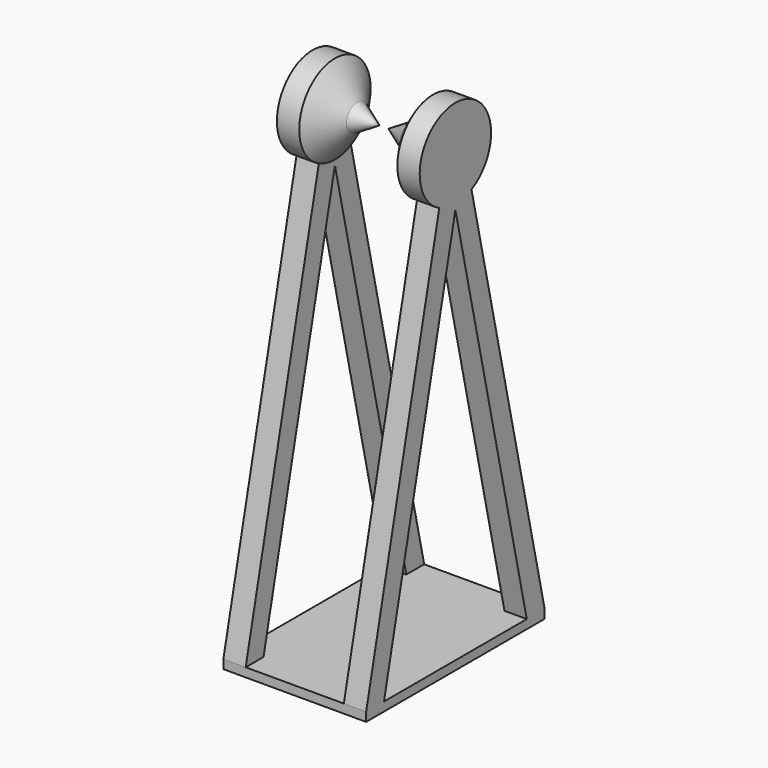
from build123d import *

# Parameters (mm, degrees)
SKETCH_W     = 32
SKETCH_H     = 50
PAD_DEPTH    = 2
SKETCH003_W  = 5
SKETCH003_H  = 5
SKETCH002_W  = 5
SKETCH002_H  = 5
SKETCH001_W  = 5
SKETCH001_H  = 5
SKETCH004_R  = 10
PAD001_DEPTH = 5


with BuildPart() as body:
    # Sketch → Pad (new body)
    with BuildSketch(Plane.XY):
        Rectangle(SKETCH_W, SKETCH_H)
    extrude(amount=PAD_DEPTH)


with BuildPart() as loft001:
    # Sketch003 (on Face6 of Pad) → Loft001 section 0
    with BuildSketch(Plane.XY.offset(2)):
        with Locations((-13.5, -22.5)):
            Rectangle(SKETCH003_W, SKETCH003_H)
    # Sketch002 (on Face6 of Pad) → Loft001 section 1
    with BuildSketch(Plane.XY.offset(102)):
        with Locations((-13.5, 0)):
            Rectangle(SKETCH002_W, SKETCH002_H)
    loft()


with BuildPart() as body001:
    # Sketch001 (on Face6 of Pad) → Loft section 0
    with BuildSketch(Plane.XY.offset(2)):
        with Locations((-13.5, 22.5)):
            Rectangle(SKETCH001_W, SKETCH001_H)
    # Sketch002 (on Face6 of Pad) → Loft section 1
    with BuildSketch(Plane.XY.offset(102)):
        with Locations((-13.5, 0)):
            Rectangle(SKETCH002_W, SKETCH002_H)
    loft()

    # Fusion: union Loft001
    add(loft001.part)

    # Sketch004 (on Face7 of BaseFeature) → Pad001 (new body)
    with BuildSketch(Plane.YZ.offset(-11)):
        with Locations((0, 102)):
            Circle(SKETCH004_R)
    extrude(amount=-PAD001_DEPTH)

    # Cone → Cone (revolve)
    with BuildSketch(Plane(origin=(-11, 0, 102), x_dir=(0, 1, 0), z_dir=(0, 0, -1))):
        Polygon((0, 0), (10, 0), (3, 5), (0, 5), align=None)
    revolve(axis=Axis((-11, 0, 102), (1, 0, 0)))

    # Cone001 → Cone001 (revolve)
    with BuildSketch(Plane(origin=(-6, 0, 102), x_dir=(0, 1, 0), z_dir=(0, 0, -1))):
        Polygon((0, 0), (3, 0), (0, 5), align=None)
    revolve(axis=Axis((-6, 0, 102), (1, 0, 0)))


with BuildPart() as tool:
    # Part__Mirroring: instance of Body001
    add(body001.part.mirror(Plane(origin=(0, 0, 0), x_dir=(0, -1, 0), z_dir=(1, 0, 0))))

    # Fusion001: union Body001
    add(body001.part)

    # Fusion002: union Body
    add(body.part)


solid = tool.part
